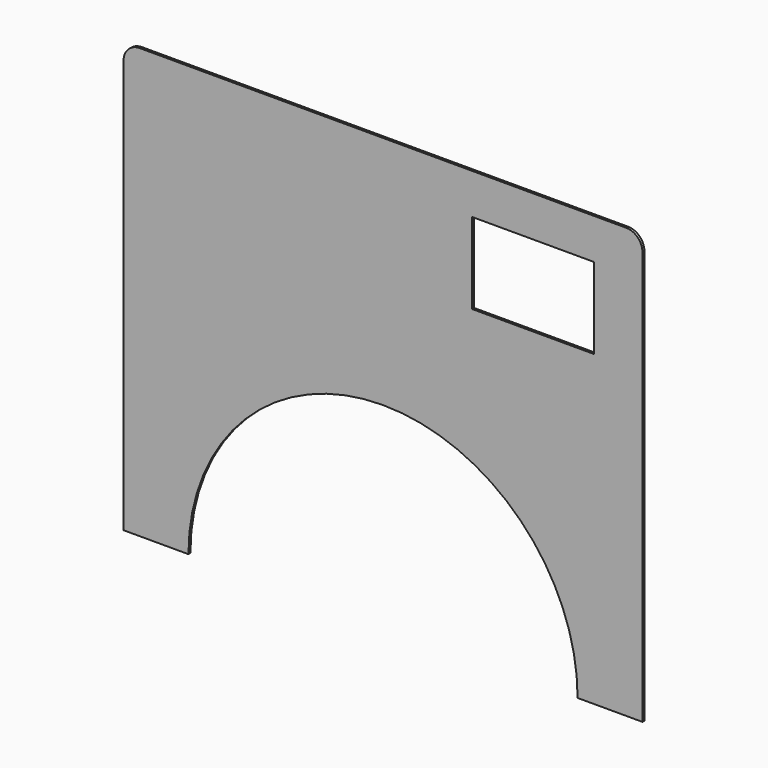
from build123d import *

# Parameters (mm, degrees)
F0_W     = 150
F0_H     = 100
F1_DEPTH = 3


with BuildPart() as f1:
    # F0 (on Front) → F1 (new body)
    with BuildSketch(Plane.XZ):
        with BuildLine():
            Line((243.11273, 314.536521), (-356.88727, 314.536521))
            ThreePointArc((-356.88727, 314.536521), (-371.029405, 308.678657), (-376.88727, 294.536521))
            Line((-376.88727, 294.536521), (-376.88727, -215.463479))
            Line((-376.88727, -215.463479), (-296.88727, -215.463479))
            ThreePointArc((-296.88727, -215.463479), (-56.88727, 24.536521), (183.11273, -215.463479))
            Line((183.11273, -215.463479), (263.11273, -215.463479))
            Line((263.11273, -215.463479), (263.11273, 294.536521))
            ThreePointArc((263.11273, 294.536521), (257.254866, 308.678657), (243.11273, 314.536521))
        make_face()
        with Locations((128.11273, 214.536521)):
            Rectangle(F0_W, F0_H, mode=Mode.SUBTRACT)
    extrude(amount=F1_DEPTH)


solid = f1.part
